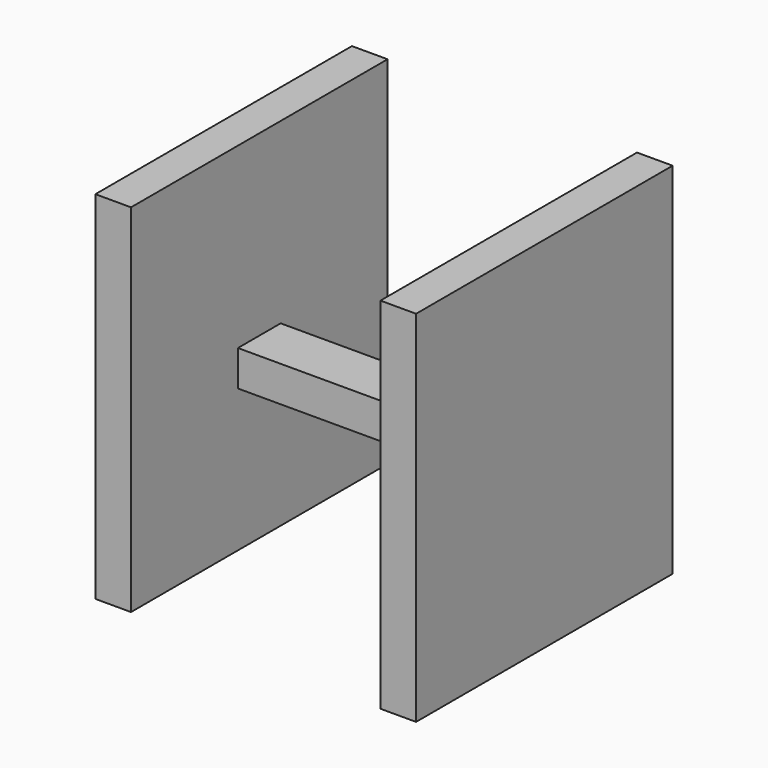
from build123d import *

# Parameters (mm, degrees)
F1_DEPTH = 45
F0_W     = 70
F0_H     = 10
F2_DEPTH = 7.5


with BuildPart() as f1:
    # F0 (on Front) → F1 (new body, symmetric)
    with BuildSketch(Plane.XZ):
        Polygon((-35, 34.058132), (-45, 34.058132), (-45, -65.941868), (-35, -65.941868), (-35, -25.941868), (-35, -15.941868), align=None)
        Polygon((35, 33.778302), (35, -15.941868), (35, -25.941868), (35, -67.061327), (45, -67.061327), (45, 33.778302), align=None)
    extrude(amount=F1_DEPTH, both=True)


with BuildPart() as f2:
    # F0 (on Front) → F2 (new body, symmetric)
    with BuildSketch(Plane.XZ):
        with Locations((0, -20.941868)):
            Rectangle(F0_W, F0_H)
    extrude(amount=F2_DEPTH, both=True)


solid = Compound([f1.part, f2.part])
